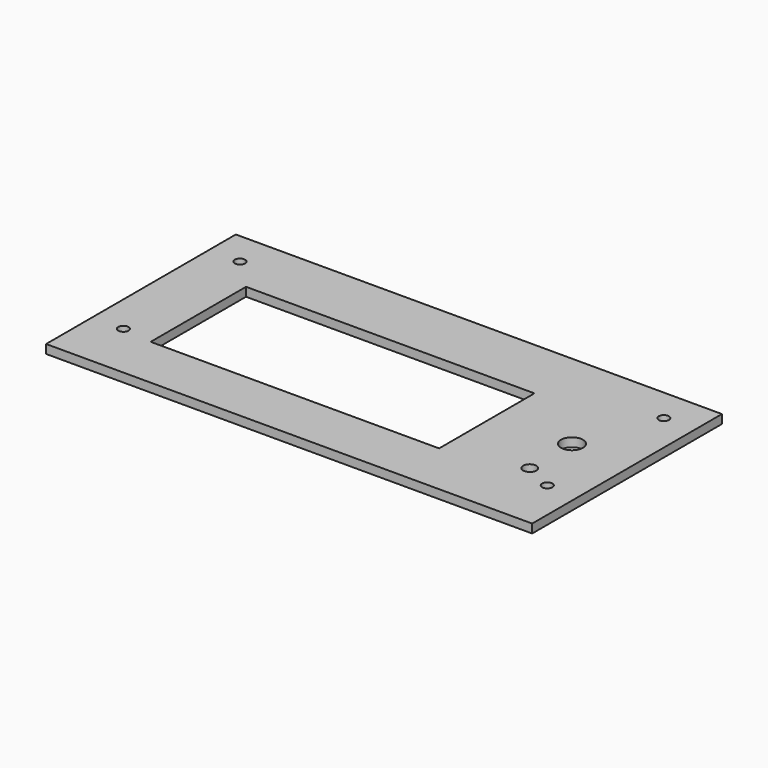
from build123d import *

# Parameters (mm, degrees)
F0_W     = 166
F0_H     = 81
F0_W_2   = 150
F0_H_2   = 63.2
F0_R     = 1.75
F0_W_3   = 98.5
F0_H_3   = 40.7
F0_W_4   = 6
F0_H_4   = 6
F0_W_5   = 13
F0_H_5   = 12
F0_R_2   = 3.75
F0_R_3   = 2.25
F1_DEPTH = 3


with BuildPart() as f1:
    # F0 (on Top) → F1 (new body)
    with BuildSketch(Plane.XY):
        Rectangle(F0_W, F0_H)
        Rectangle(F0_W_2, F0_H_2, mode=Mode.SUBTRACT)
        Rectangle(F0_W_2, F0_H_2)
        with Locations((-72.38, -20.78)):
            Circle(F0_R, mode=Mode.SUBTRACT)
        with Locations((-12.75, -1.75)):
            Rectangle(F0_W_3, F0_H_3, mode=Mode.SUBTRACT)
        with Locations((72.38, -20.78)):
            Circle(F0_R, mode=Mode.SUBTRACT)
        with Locations((62.5, -15.9)):
            Rectangle(F0_W_4, F0_H_4, mode=Mode.SUBTRACT)
        with Locations((-72.38, 28.98)):
            Circle(F0_R, mode=Mode.SUBTRACT)
        with Locations((62.5, 2.1)):
            Rectangle(F0_W_5, F0_H_5, mode=Mode.SUBTRACT)
        with Locations((72.38, 28.98)):
            Circle(F0_R, mode=Mode.SUBTRACT)
        with Locations((62.5, 2.1)):
            Rectangle(F0_W_5, F0_H_5)
        with Locations((62.5, 2.1)):
            Circle(F0_R_2, mode=Mode.SUBTRACT)
        with Locations((62.5, -15.9)):
            Rectangle(F0_W_4, F0_H_4)
        with Locations((62.5, -15.9)):
            Circle(F0_R_3, mode=Mode.SUBTRACT)
    extrude(amount=F1_DEPTH)


solid = f1.part
